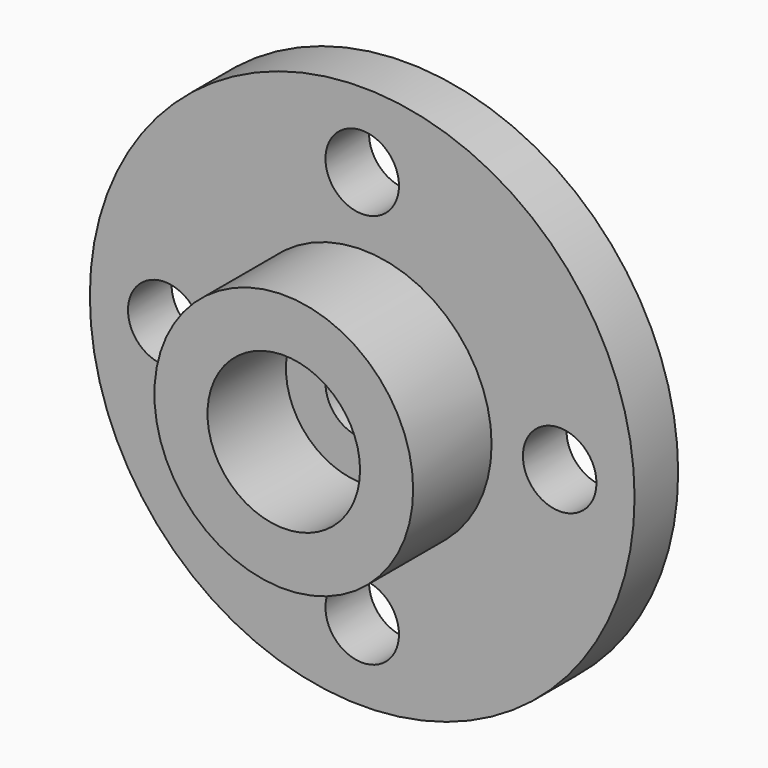
from build123d import *

# Parameters (mm, degrees)
F0_R     = 10
F1_DEPTH = 2
F2_R     = 4.75
F2_R_2   = 2.8
F3_DEPTH = 3.6
F4_R     = 1.35
F5_DEPTH = 25


with BuildPart() as f1:
    # F0 (on Front) → F1 (new body)
    with BuildSketch(Plane.XZ):
        Circle(F0_R)
    extrude(amount=F1_DEPTH)

    # F2 (on face) → F3 (join)
    with BuildSketch(Plane.XZ.offset(2)):
        Circle(F2_R)
        Circle(F2_R_2, mode=Mode.SUBTRACT)
    extrude(amount=F3_DEPTH)

    # F4 (on face) → F5 (cut)
    with BuildSketch(Plane.XZ.offset(2)):
        with Locations((0, 7.25)):
            Circle(F4_R)
        with Locations((-7.25, 0)):
            Circle(F4_R)
        Circle(F4_R)
        with Locations((7.25, 0)):
            Circle(F4_R)
        with Locations((0, -7.25)):
            Circle(F4_R)
    extrude(amount=-F5_DEPTH, mode=Mode.SUBTRACT)


solid = f1.part
